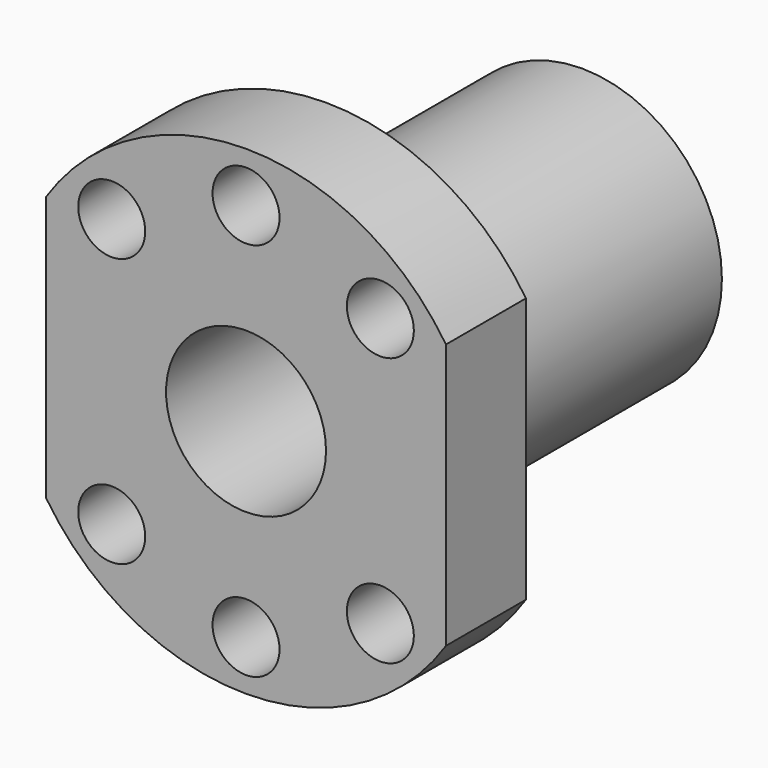
from build123d import *

# Parameters (mm, degrees)
F0_R     = 14
F0_R_2   = 8
F1_DEPTH = 42
F2_R     = 14
F2_R_2   = 8
F2_R_3   = 3.35
F3_DEPTH = 10


with BuildPart() as f1:
    # F0 (on Front) → F1 (new body)
    with BuildSketch(Plane.XZ):
        Circle(F0_R)
        Circle(F0_R_2, mode=Mode.SUBTRACT)
    extrude(amount=F1_DEPTH)

    # F2 (on face) → F3 (join)
    with BuildSketch(Plane.XZ.offset(42)):
        Circle(F2_R)
        Circle(F2_R_2, mode=Mode.SUBTRACT)
        with BuildLine():
            Line((-20.000001, 13.266497), (-20, -13.266499))
            ThreePointArc((-20, -13.266499), (0, -24), (20, -13.266499))
            Line((20, -13.266499), (19.999999, 13.266501))
            ThreePointArc((19.999999, 13.266501), (-2e-06, 24), (-20.000001, 13.266497))
        make_face()
        with Locations((-13.435029, -13.435029)):
            Circle(F2_R_3, mode=Mode.SUBTRACT)
        with Locations((0, -19)):
            Circle(F2_R_3, mode=Mode.SUBTRACT)
        with Locations((13.435029, -13.435029)):
            Circle(F2_R_3, mode=Mode.SUBTRACT)
        Circle(F2_R, mode=Mode.SUBTRACT)
        with Locations((-13.435029, 13.435029)):
            Circle(F2_R_3, mode=Mode.SUBTRACT)
        with Locations((0, 19)):
            Circle(F2_R_3, mode=Mode.SUBTRACT)
        with Locations((13.435029, 13.435029)):
            Circle(F2_R_3, mode=Mode.SUBTRACT)
    extrude(amount=-F3_DEPTH)


solid = f1.part
